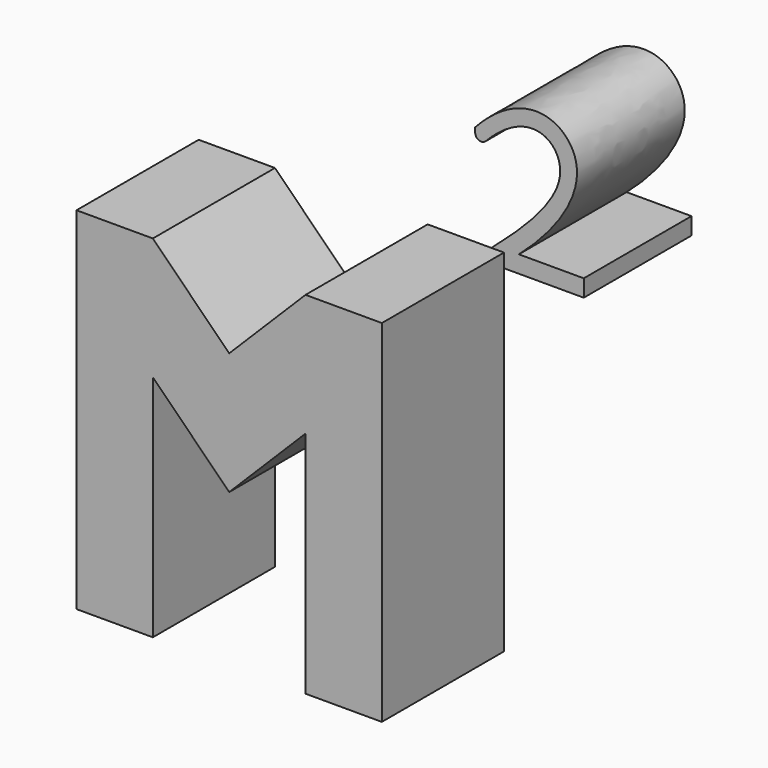
from build123d import *

# Parameters (mm, degrees)
F1_DEPTH = 12.7
F3_DEPTH = 11.20158
F4_R     = 0.508


with BuildPart() as f1:
    # F0 (on Front) → F1 (new body)
    with BuildSketch(Plane.XZ):
        Polygon((-25.4, 29.21), (-25.4, 0), (-19.05, 0), (-19.05, 19.05), (-12.7, 12.7), (-6.35, 19.05), (-6.35, 0), (0, 0), (0, 29.21), (-6.35, 29.21), (-12.7, 22.86), (-19.05, 29.21), align=None)
    extrude(amount=F1_DEPTH)

    # F2 (on Front) → F3 (join)
    with BuildSketch(Plane.XZ):
        with BuildLine():
            Line((-2.3994161721, 28.0597675592), (6.6355378367, 28.0597675592))
            Line((6.6355378367, 28.0597675592), (6.6355378367, 29.4827252309))
            Line((6.6355378367, 29.4827252309), (1.2384620469, 29.4827252309))
            add(Edge.make_bspline(
                [(1.2384620469, 29.4827252309), (4.3676832704, 32.1977850174), (8.890126837, 38.6554285203), (1.7391745932, 42.078929022), (-2.3994161721, 37.6041723206)],
                knots=[0, 0, 0, 0, 0.5203529604, 1, 1, 1, 1], degree=3))
            Line((-2.3994161721, 37.6041723206), (-2.3994161721, 35.8844103642))
            add(Edge.make_bspline(
                [(-2.3994161721, 28.0597675592), (2.1288901598, 31.8470776853), (7.5727786172, 37.3091404259), (1.4697099185, 40.5985963112), (-2.3994161721, 35.8844103642)],
                knots=[0, 0, 0, 0, 0.5601329519, 1, 1, 1, 1], degree=3))
        make_face()
    extrude(amount=-F3_DEPTH)

    # F4
    f4_edges = [f1.edges().sort_by_distance(p)[0] for p in [
        (-2.399416, 5.60079, 28.059768),
        (-2.399416, 5.60079, 35.88441),
    ]]
    fillet(f4_edges, radius=F4_R)


solid = f1.part
